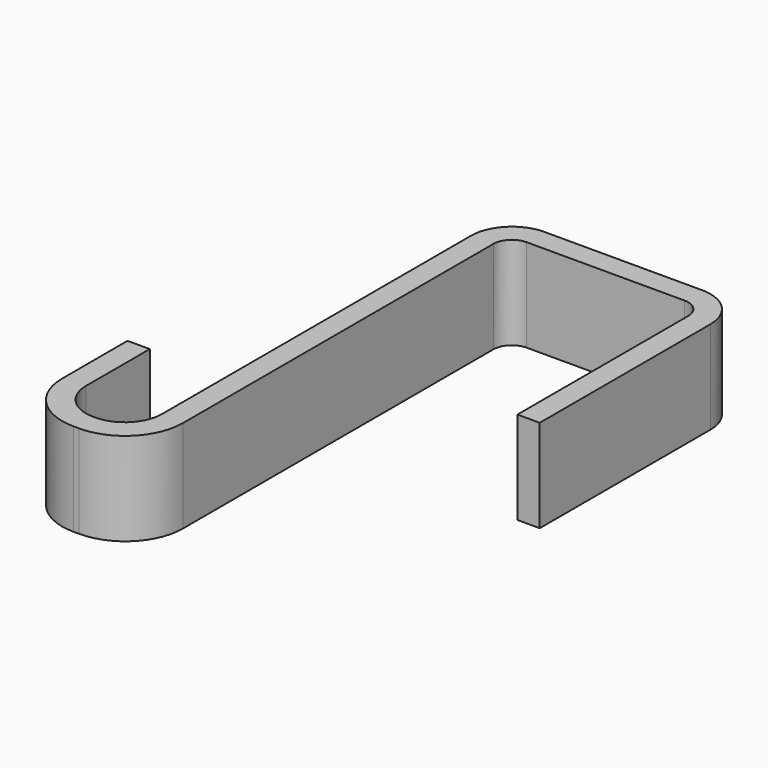
from build123d import *

# Parameters (mm, degrees)
F1_DEPTH = 10
F2_R     = 2
F3_R     = 4.4
F4_R     = 4
F5_R     = 6.2


with BuildPart() as f1:
    # F0 (on Top) → F1 (new body)
    with BuildSketch(Plane.XY):
        Polygon((6.78689, 27.703254), (6.78689, 2.703254), (9.18689, 2.703254), (9.18689, 30.103254), (-16.61311, 30.103254), (-16.61311, -19.896746), (-24.81311, -19.896746), (-24.81311, -7.296746), (-27.21311, -7.296746), (-27.21311, -22.296746), (-14.21311, -22.296746), (-14.21311, 27.703254), align=None)
    extrude(amount=F1_DEPTH)

    # F2
    f2_edges = [f1.edges().sort_by_distance(p)[0] for p in [
        (-14.21311, 27.703254, 5),
        (6.78689, 27.703254, 5),
    ]]
    fillet(f2_edges, radius=F2_R)

    # F3
    f3_edges = [f1.edges().sort_by_distance(p)[0] for p in [
        (-16.61311, 30.103254, 5),
        (9.18689, 30.103254, 5),
    ]]
    fillet(f3_edges, radius=F3_R)

    # F4
    f4_edges = [f1.edges().sort_by_distance(p)[0] for p in [
        (-24.81311, -19.896746, 5),
        (-16.61311, -19.896746, 5),
    ]]
    fillet(f4_edges, radius=F4_R)

    # F5
    f5_edges = [f1.edges().sort_by_distance(p)[0] for p in [
        (-27.21311, -22.296746, 5),
        (-14.21311, -22.296746, 5),
    ]]
    fillet(f5_edges, radius=F5_R)


solid = f1.part
